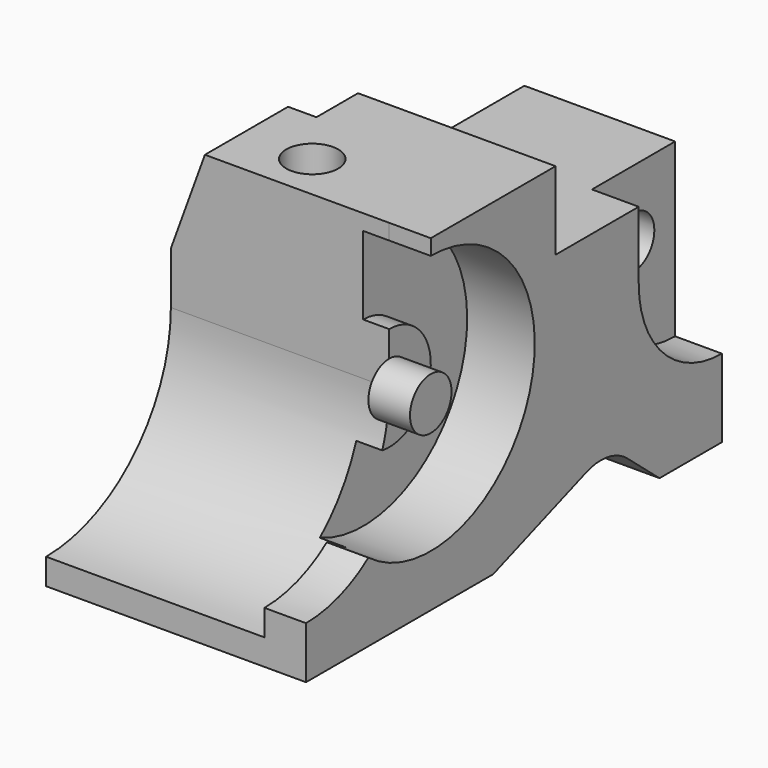
from build123d import *

# Parameters (mm, degrees)
F0_W      = 50
F0_H      = 100
F1_DEPTH  = 31.5
F2_W      = 40
F2_H      = 15
F2_R      = 5
F3_DEPTH  = 50.001
F4_R      = 5
F5_DEPTH  = 9
F6_R      = 10
F6_R_2    = 5
F7_DEPTH  = 8
F8_R      = 25
F8_R_2    = 10
F9_DEPTH  = 13
F10_R     = 25
F11_DEPTH = 25.4
F12_R     = 30
F13_DEPTH = 42
F15_DEPTH = 42
F16_W     = 34.712657
F16_H     = 15.360096
F17_DEPTH = 8.001
F18_R     = 5
F19_DEPTH = 63.001
F21_DEPTH = 70.001


with BuildPart() as f1:
    # F0 (on Top) → F1 (new body, symmetric)
    with BuildSketch(Plane.XY):
        Rectangle(F0_W, F0_H)
    extrude(amount=F1_DEPTH, both=True)

    # F2 (on face) → F3 (cut, through all)
    with BuildSketch(Plane.YZ.offset(25)):
        with Locations((30, 24)):
            Rectangle(F2_W, F2_H)
        with Locations((40, 3.5)):
            Circle(F2_R)
        with BuildLine():
            Line((17.473299, -23.320388), (-5, -31.5))
            Line((-5, -31.5), (35, -31.5))
            Line((35, -31.5), (27.321377, -25.05687))
            ThreePointArc((27.321377, -25.05687), (22.629982, -22.869237), (17.473299, -23.320388))
        make_face()
    extrude(amount=-F3_DEPTH, mode=Mode.SUBTRACT)

    # F4 (on face) → F5 (cut)
    with BuildSketch(Plane.YZ.offset(25)):
        with BuildLine():
            Line((50, 16.5), (30, 16.5))
            Line((30, 16.5), (30, 3.5))
            ThreePointArc((30, 3.5), (35.857864, -10.642136), (50, -16.5))
            Line((50, -16.5), (50, 16.5))
        make_face()
        with Locations((40, 3.5)):
            Circle(F4_R, mode=Mode.SUBTRACT)
    extrude(amount=-F5_DEPTH, mode=Mode.SUBTRACT)

    # F6 (on face) → F7 (cut)
    with BuildSketch(Plane.YZ.offset(25)):
        with Locations((-20, 3.5)):
            Circle(F6_R)
        with Locations((-20, 3.5)):
            Circle(F6_R_2, mode=Mode.SUBTRACT)
    extrude(amount=-F7_DEPTH, mode=Mode.SUBTRACT)

    # F8 (on face) → F9 (cut)
    with BuildSketch(Plane.YZ.offset(25)):
        with Locations((-20, 3.5)):
            Circle(F8_R)
        with Locations((-20, 3.5)):
            Circle(F8_R_2, mode=Mode.SUBTRACT)
    extrude(amount=-F9_DEPTH, mode=Mode.SUBTRACT)

    # F10 (on face) → F11 (cut)
    with BuildSketch(Plane.YZ.offset(17)):
        with Locations((-50, 3.5)):
            Circle(F10_R)
    extrude(amount=F11_DEPTH, mode=Mode.SUBTRACT)

    # F12 (on face) → F13 (cut, through all)
    with BuildSketch(Plane.YZ.offset(17)):
        with Locations((-50, 3.5)):
            Circle(F12_R)
    extrude(amount=-F13_DEPTH, mode=Mode.SUBTRACT)

    # F14 (on face) → F15 (cut, through all)
    with BuildSketch(Plane.YZ.offset(17)):
        Polygon((-20, 3.5), (-20, 31.5), (-50, 31.5), (-50, 28.5), (-50, 3.5), align=None)
    extrude(amount=-F15_DEPTH, mode=Mode.SUBTRACT)

    # F16 (on face) → F17 (cut, through all)
    with BuildSketch(Plane(origin=(17, 0, 0), x_dir=(0, -1, 0), z_dir=(-1, 0, 0))):
        with Locations((37.356329, 23.819952)):
            Rectangle(F16_W, F16_H)
    extrude(amount=-F17_DEPTH, mode=Mode.SUBTRACT)

    # F18 (on face) → F19 (cut, through all)
    with BuildSketch(Plane.XY.offset(31.5)):
        with Locations((-5, -11)):
            Circle(F18_R)
        Polygon((-13, 50), (-25, 50), (-25, 10), (-25, 0), (-13, 0), align=None)
    extrude(amount=-F19_DEPTH, mode=Mode.SUBTRACT)

    # F20 (on face) → F21 (cut, through all)
    with BuildSketch(Plane.XZ.offset(20)):
        Polygon((-25, 13.5), (-18.448536, 31.5), (-25, 31.5), align=None)
    extrude(amount=-F21_DEPTH, mode=Mode.SUBTRACT)


solid = f1.part
